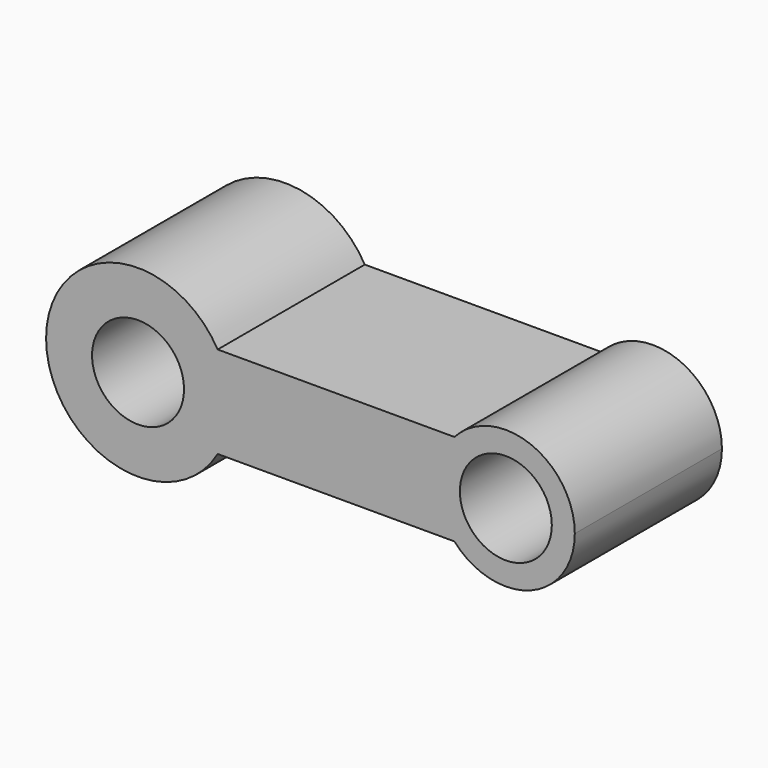
from build123d import *

# Parameters (mm, degrees)
F0_R     = 5
F1_DEPTH = 10


with BuildPart() as f1:
    # F0 (on Front) → F1 (new body, symmetric)
    with BuildSketch(Plane.XZ):
        with BuildLine():
            ThreePointArc((8.660254, 5), (9.659258, 2.58819), (10, 0))
            ThreePointArc((10, 0), (9.659258, -2.58819), (8.660254, -5))
            Line((8.660254, -5), (34.40983, -5))
            ThreePointArc((34.40983, -5), (32.5, 0), (34.40983, 5))
            Line((34.40983, 5), (8.660254, 5))
        make_face()
        with BuildLine():
            ThreePointArc((47.5, 0), (42.676166, 7.006293), (34.40983, 5))
            ThreePointArc((34.40983, 5), (32.5, 0), (34.40983, -5))
            ThreePointArc((34.40983, -5), (42.676166, -7.006293), (47.5, 0))
        make_face()
        with Locations((40, 0)):
            Circle(F0_R, mode=Mode.SUBTRACT)
        with BuildLine():
            ThreePointArc((8.660254, -5), (9.659258, -2.58819), (10, 0))
            ThreePointArc((10, 0), (9.659258, 2.58819), (8.660254, 5))
            ThreePointArc((8.660254, 5), (-10, 0), (8.660254, -5))
        make_face()
        Circle(F0_R, mode=Mode.SUBTRACT)
    extrude(amount=F1_DEPTH, both=True)


solid = f1.part
